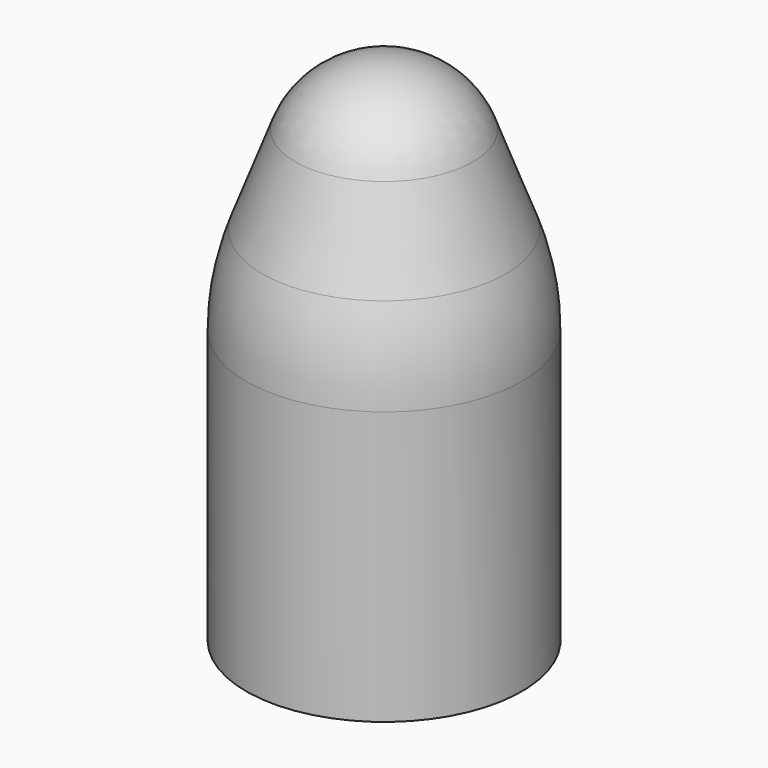
from build123d import *


with BuildPart() as f1:
    # F0 (on Front) → F1 (revolve)
    with BuildSketch(Plane.XZ):
        with BuildLine():
            Line((-3.429, 0), (0, 0))
            Line((0, 0), (0, 12.7))
            ThreePointArc((0, 12.7), (-1.34335, 12.302195), (-2.209105, 11.200693))
            Line((-2.209105, 11.200693), (-3.026965, 9.012933))
            ThreePointArc((-3.026965, 9.012933), (-3.327683, 7.919181), (-3.429, 6.789376))
            Line((-3.429, 6.789376), (-3.429, 0))
        make_face()
    revolve(axis=Axis((0, 0, 6.35), (0, 0, 1)))


solid = f1.part
